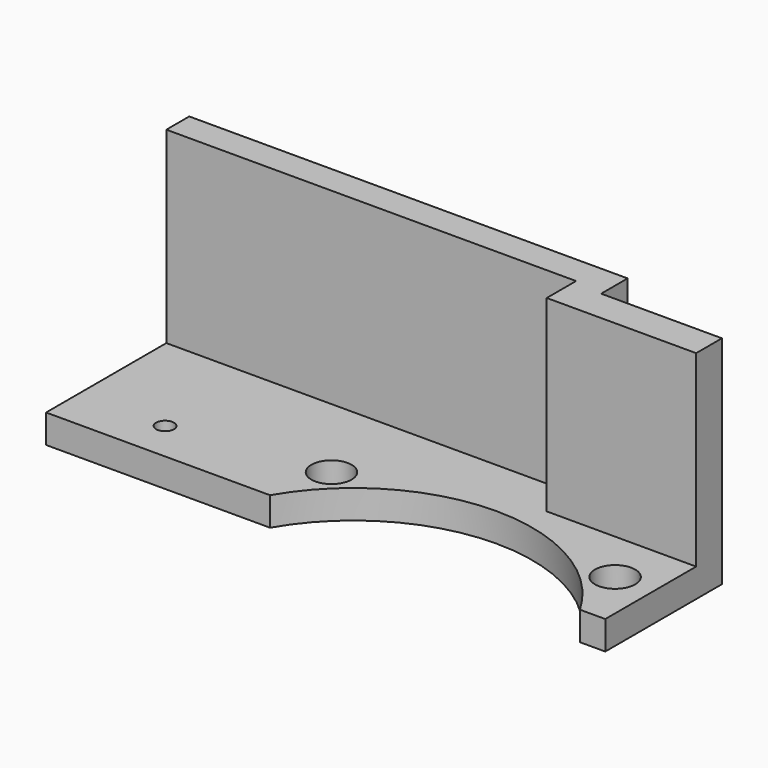
from build123d import *

# Parameters (mm, degrees)
F1_DEPTH = 3.2
F2_R     = 20
F3_DEPTH = 25
F4_R     = 1
F5_DEPTH = 25
F6_R     = 2.25
F7_DEPTH = 25
F9_DEPTH = 21


with BuildPart() as f1:
    # F0 (on Top) → F1 (new body)
    with BuildSketch(Plane.XY):
        Polygon((0, 0), (62.5, 0), (62.5, 16.3), (49, 16.3), (49, 20), (0, 20), align=None)
    extrude(amount=F1_DEPTH)

    # F2 (on face) → F3 (cut)
    with BuildSketch(Plane.XY.offset(3.2)):
        with Locations((42.349905, -10)):
            Circle(F2_R)
    extrude(amount=-F3_DEPTH, mode=Mode.SUBTRACT)

    # F4 (on face) → F5 (cut)
    with BuildSketch(Plane.XY.offset(3.2)):
        with Locations((9.7, 4.5)):
            Circle(F4_R)
    extrude(amount=-F5_DEPTH, mode=Mode.SUBTRACT)

    # F6 (on face) → F7 (cut)
    with BuildSketch(Plane.XY.offset(3.2)):
        with Locations((26.5, 6.75)):
            Circle(F6_R)
        with Locations((58.2, 6.75)):
            Circle(F6_R)
    extrude(amount=-F7_DEPTH, mode=Mode.SUBTRACT)

    # F8 (on face) → F9 (join)
    with BuildSketch(Plane.XY.offset(3.2)):
        Polygon((49, 20), (0, 20), (0, 16.8), (45.8, 16.8), (45.8, 12.7), (62.5, 12.7), (62.5, 16.3), (49, 16.3), align=None)
    extrude(amount=F9_DEPTH)


solid = f1.part
